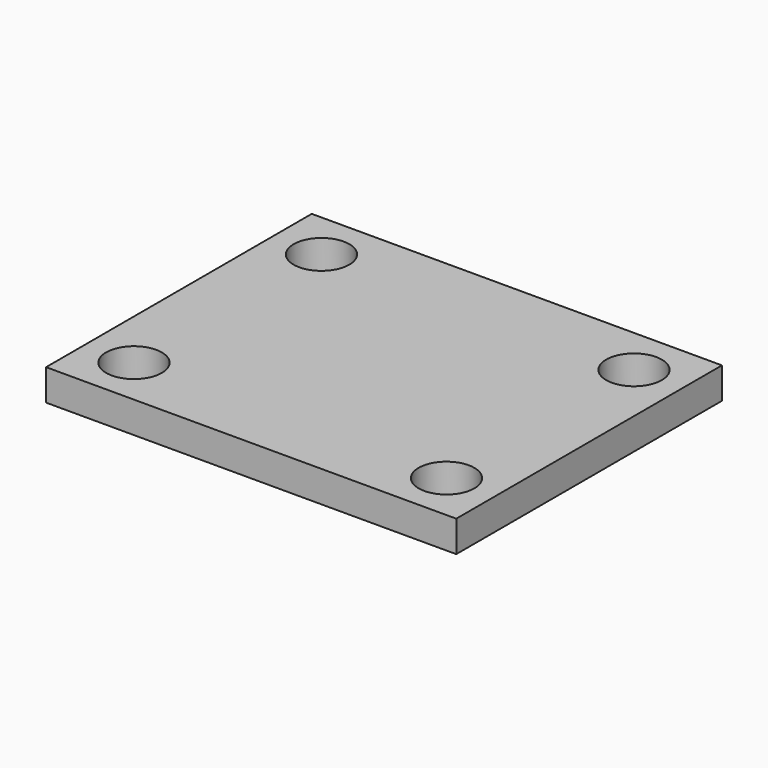
from build123d import *

# Parameters (mm, degrees)
F0_W           = 105
F0_H           = 85
F0_R           = 4
F1_DEPTH       = 8
F2_D           = 8.8
F2_CBORE_D     = 14.25
F2_CBORE_DEPTH = 8


with BuildPart() as f1:
    # F0 (on Top) → F1 (new body)
    with BuildSketch(Plane.XY):
        Rectangle(F0_W, F0_H)
        with Locations((-40, -30)):
            Circle(F0_R, mode=Mode.SUBTRACT)
        with Locations((40, -30)):
            Circle(F0_R, mode=Mode.SUBTRACT)
        with Locations((-40, 30)):
            Circle(F0_R, mode=Mode.SUBTRACT)
        with Locations((40, 30)):
            Circle(F0_R, mode=Mode.SUBTRACT)
        with Locations((-40, 30)):
            Circle(F0_R)
        with Locations((40, 30)):
            Circle(F0_R)
        with Locations((40, -30)):
            Circle(F0_R)
        with Locations((-40, -30)):
            Circle(F0_R)
    extrude(amount=F1_DEPTH)

    # F2 (through all)
    with Locations(Plane(origin=(0, 0, 0), x_dir=(1, 0, 0), z_dir=(0, 0, -1))):
        with Locations((-40, -30), (40, -30), (40, 30), (-40, 30)):
            CounterBoreHole(F2_D / 2, F2_CBORE_D / 2, F2_CBORE_DEPTH)


solid = f1.part
